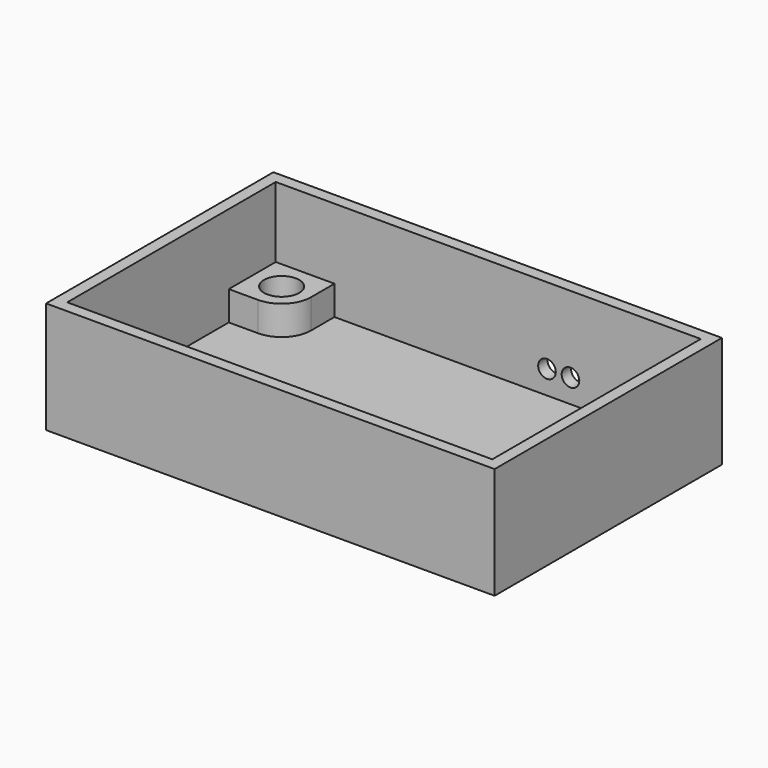
from build123d import *

# Parameters (mm, degrees)
F0_W     = 38.2
F0_H     = 24.2
F1_DEPTH = 9.5
F2_T     = -1
F3_R     = 1.5
F4_DEPTH = 2.5
F5_R     = 0.75
F6_DEPTH = 1


with BuildPart() as f1:
    # F0 (on Top) → F1 (new body)
    with BuildSketch(Plane.XY):
        Rectangle(F0_W, F0_H)
    extrude(amount=F1_DEPTH)

    # F2
    f2_openings = [f1.faces().sort_by_distance(p)[0] for p in [
        (0, 0, 9.5),
    ]]
    offset(amount=F2_T, openings=f2_openings)

    # F3 (on face) → F4 (join)
    with BuildSketch(Plane.XY.offset(1)):
        with BuildLine():
            Line((-18.1, 6.1), (-15.6, 6.1))
            ThreePointArc((-15.6, 6.1), (-13.832233, 6.832233), (-13.1, 8.6))
            Line((-13.1, 8.6), (-13.1, 11.1))
            Line((-13.1, 11.1), (-18.1, 11.1))
            Line((-18.1, 11.1), (-18.1, 6.1))
        make_face()
        with Locations((-15.6, 8.6)):
            Circle(F3_R, mode=Mode.SUBTRACT)
        with BuildLine():
            Line((13.1, 11.1), (13.1, 8.6))
            ThreePointArc((13.1, 8.6), (13.832233, 6.832233), (15.6, 6.1))
            Line((15.6, 6.1), (18.1, 6.1))
            Line((18.1, 6.1), (18.1, 11.1))
            Line((18.1, 11.1), (13.1, 11.1))
        make_face()
        with Locations((15.6, 8.6)):
            Circle(F3_R, mode=Mode.SUBTRACT)
    extrude(amount=F4_DEPTH)

    # F5 (on face) → F6 (cut, through all)
    with BuildSketch(Plane.XZ.offset(-11.1)):
        with Locations((5, 3)):
            Circle(F5_R)
        with Locations((7, 3)):
            Circle(F5_R)
    extrude(amount=-F6_DEPTH, mode=Mode.SUBTRACT)


solid = f1.part
